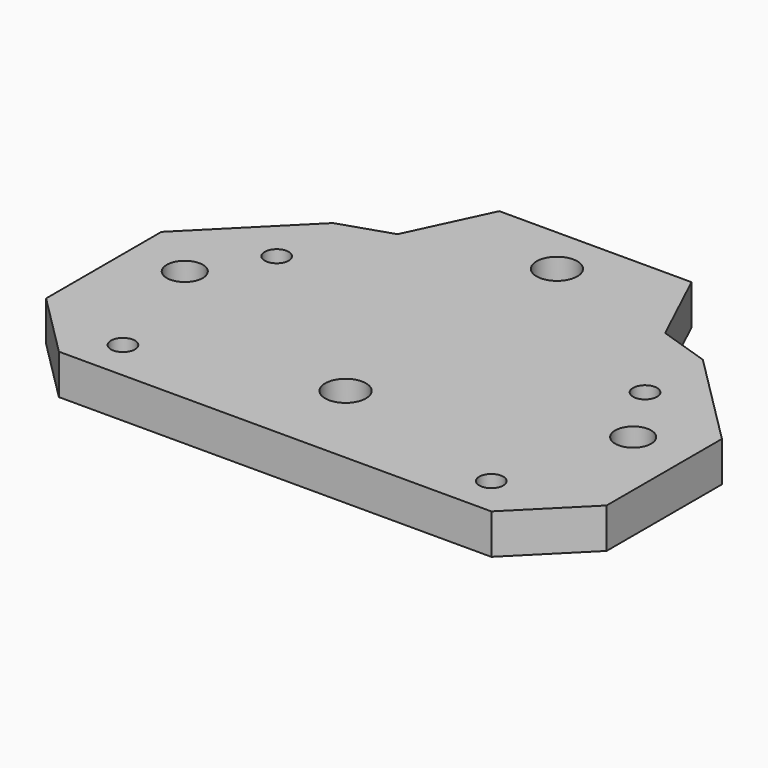
from build123d import *

# Parameters (mm, degrees)
F0_R     = 2.55
F0_R_2   = 1.5
F0_R_3   = 2.25
F1_DEPTH = 5


with BuildPart() as f1:
    # F0 (on Top) → F1 (new body)
    with BuildSketch(Plane.XY):
        Polygon((-27, 17), (27, 17), (23.095516, 20.904484), (16.706442, 23), (12, 33), (-12, 33), (-16.706442, 23), (-23.095516, 20.904484), align=None)
        with Locations((0, 27)):
            Circle(F0_R, mode=Mode.SUBTRACT)
        Polygon((-27, -17), (27, -17), (35, -9), (35, 9), (27, 17), (-27, 17), (-35, 9), (-35, -9), align=None)
        with Locations((-23, -12)):
            Circle(F0_R_2, mode=Mode.SUBTRACT)
        with Locations((-28, 3.9)):
            Circle(F0_R_3, mode=Mode.SUBTRACT)
        with Locations((0, -6)):
            Circle(F0_R, mode=Mode.SUBTRACT)
        with Locations((23, -12)):
            Circle(F0_R_2, mode=Mode.SUBTRACT)
        with Locations((28, 3.9)):
            Circle(F0_R_3, mode=Mode.SUBTRACT)
        with Locations((-23, 12)):
            Circle(F0_R_2, mode=Mode.SUBTRACT)
        with Locations((23, 12)):
            Circle(F0_R_2, mode=Mode.SUBTRACT)
    extrude(amount=-F1_DEPTH)


solid = f1.part
